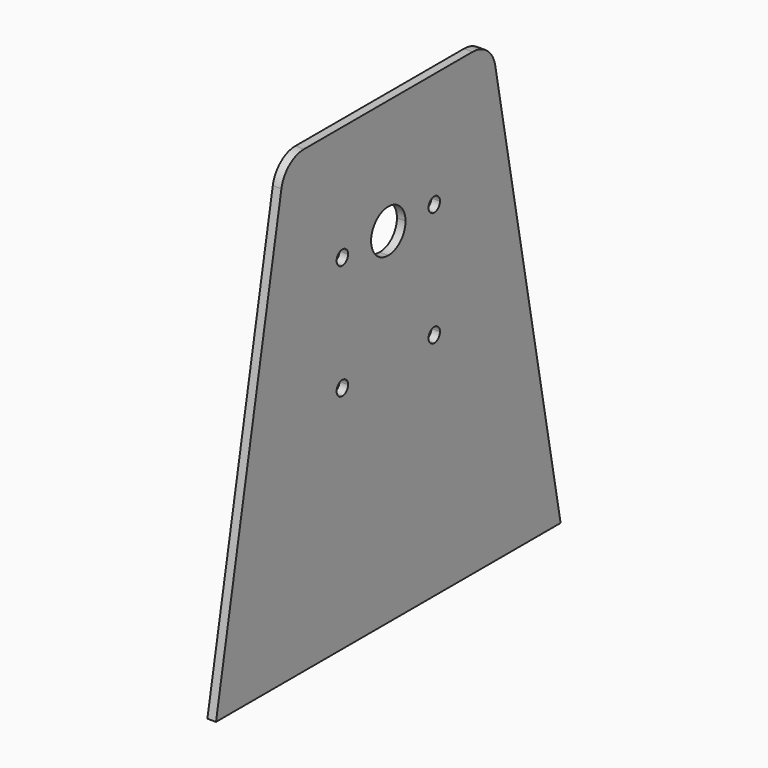
from build123d import *

# Parameters (mm, degrees)
F1_DEPTH = 3
F2_R     = 10


with BuildPart() as f1:
    # F0 (on Right) → F1 (new body)
    with BuildSketch(Plane.YZ):
        Polygon((45, 160), (0, 160), (-45, 160), (-75, 0), (0, 0), (75, 0), align=None)
        with BuildLine():
            ThreePointArc((-20, 82.5), (-18.232233, 81.767767), (-17.5, 80))
            ThreePointArc((-17.5, 80), (-18.232233, 78.232233), (-20, 77.5))
            ThreePointArc((-20, 77.5), (-21.767767, 78.232233), (-22.5, 80))
            ThreePointArc((-22.5, 80), (-21.767767, 81.767767), (-20, 82.5))
        make_face(mode=Mode.SUBTRACT)
        with BuildLine():
            ThreePointArc((-20, 122.5), (-18.232233, 121.767767), (-17.5, 120))
            ThreePointArc((-17.5, 120), (-18.232233, 118.232233), (-20, 117.5))
            ThreePointArc((-20, 117.5), (-21.767767, 118.232233), (-22.5, 120))
            ThreePointArc((-22.5, 120), (-21.767767, 121.767767), (-20, 122.5))
        make_face(mode=Mode.SUBTRACT)
        with BuildLine():
            ThreePointArc((22.5, 80), (21.767767, 78.232233), (20, 77.5))
            ThreePointArc((20, 77.5), (18.232233, 78.232233), (17.5, 80))
            ThreePointArc((17.5, 80), (18.232233, 81.767767), (20, 82.5))
            ThreePointArc((20, 82.5), (21.767767, 81.767767), (22.5, 80))
        make_face(mode=Mode.SUBTRACT)
        with BuildLine():
            ThreePointArc((0, 127.5), (5.303301, 125.303301), (7.5, 120))
            ThreePointArc((7.5, 120), (5.303301, 114.696699), (0, 112.5))
            ThreePointArc((0, 112.5), (-5.303301, 114.696699), (-7.5, 120))
            ThreePointArc((-7.5, 120), (-5.303301, 125.303301), (0, 127.5))
        make_face(mode=Mode.SUBTRACT)
        with BuildLine():
            ThreePointArc((20, 122.5), (21.767767, 121.767767), (22.5, 120))
            ThreePointArc((22.5, 120), (21.767767, 118.232233), (20, 117.5))
            ThreePointArc((20, 117.5), (18.232233, 118.232233), (17.5, 120))
            ThreePointArc((17.5, 120), (18.232233, 121.767767), (20, 122.5))
        make_face(mode=Mode.SUBTRACT)
    extrude(amount=F1_DEPTH)

    # F2
    f2_edges = [f1.edges().sort_by_distance(p)[0] for p in [
        (1.5, -45, 160),
        (1.5, 45, 160),
    ]]
    fillet(f2_edges, radius=F2_R)


solid = f1.part
